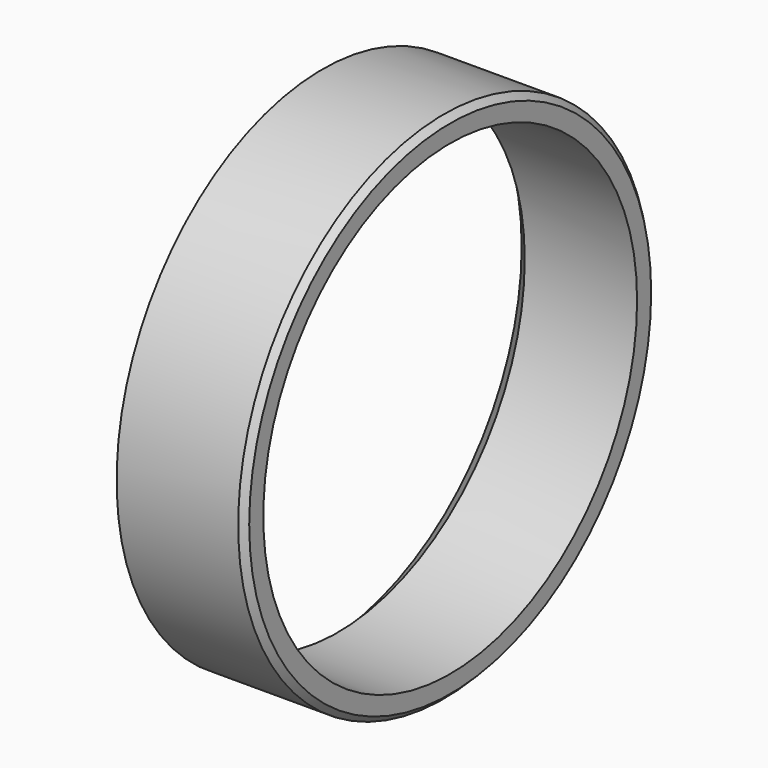
from build123d import *

# Parameters (mm, degrees)
F0_R     = 32
F0_R_2   = 29.05
F1_DEPTH = 15.875
F2_SIZE  = 1.905
F3_SIZE  = 0.762


with BuildPart() as f1:
    # F0 (on Right) → F1 (new body)
    with BuildSketch(Plane.YZ):
        Circle(F0_R)
        Circle(F0_R_2, mode=Mode.SUBTRACT)
    extrude(amount=F1_DEPTH)

    # F2
    f2_edges = [f1.edges().sort_by_distance(p)[0] for p in [
        (0, -29.05, 0),
    ]]
    chamfer(f2_edges, length=F2_SIZE)

    # F3
    f3_edges = [f1.edges().sort_by_distance(p)[0] for p in [
        (15.875, -32, 0),
    ]]
    chamfer(f3_edges, length=F3_SIZE)


solid = f1.part
